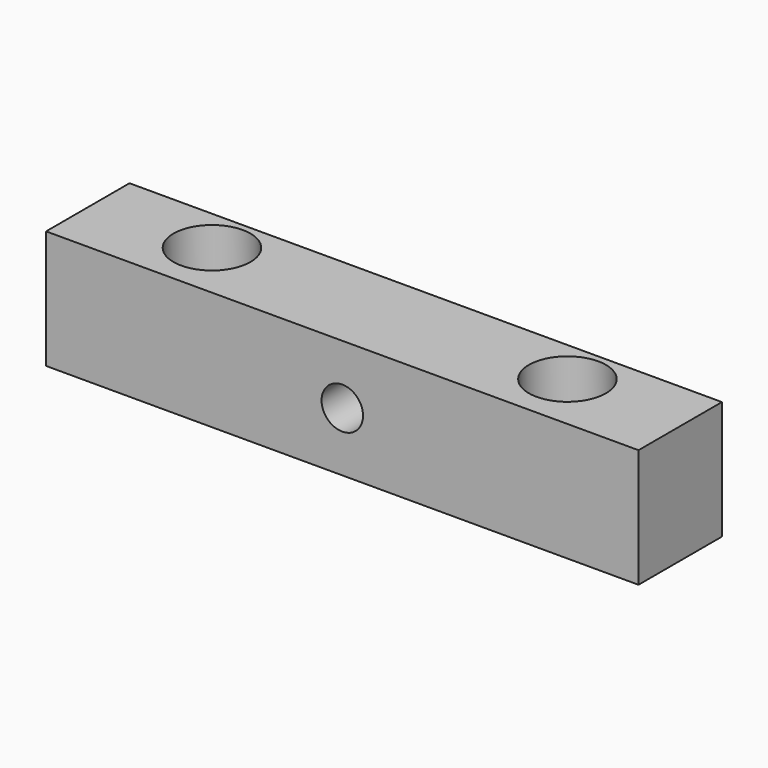
from build123d import *

# Parameters (mm, degrees)
F0_W           = 50
F0_H           = 10
F1_DEPTH       = 10
F3_D           = 3.4
F3_CBORE_D     = 6.5
F3_CBORE_DEPTH = 4
F5_D           = 3.5
F6_DEPTH       = 1.2


with BuildPart() as f1:
    # F0 (on Front) → F1 (new body)
    with BuildSketch(Plane.XZ):
        with Locations((-13.0036683753, -0.9258947149)):
            Rectangle(F0_W, F0_H)
    extrude(amount=F1_DEPTH)

    # F3 (through all)
    with Locations(Plane.XY.offset(4.0741052851)):
        with Locations((-28.0036683753, -5), (1.9963316247, -5)):
            CounterBoreHole(F3_D / 2, F3_CBORE_D / 2, F3_CBORE_DEPTH)

    # F5 (through all)
    with Locations(Plane.XZ.offset(10)):
        with Locations((-13.0036683753, -0.9258947149)):
            Hole(F5_D / 2)

    # F6 (cut): a face of the model
    f6_faces = [f1.faces().sort_by_distance(p)[0] for p in [
        (-13.0036683753, 0, 3.5642033337),
    ]]
    extrude(f6_faces, amount=-F6_DEPTH, mode=Mode.SUBTRACT)


solid = f1.part
